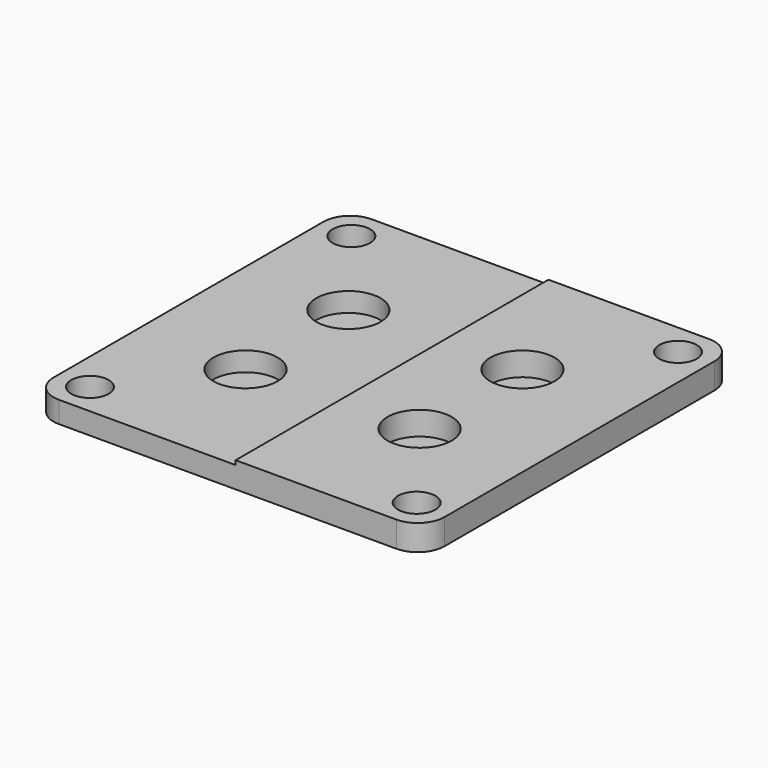
from build123d import *

# Parameters (mm, degrees)
F0_W     = 36.5
F0_H     = 36.5
F0_R     = 1.75
F1_DEPTH = 0.2
F2_W     = 36.5
F2_H     = 36.5
F2_R     = 1.75
F2_R_2   = 3
F3_DEPTH = 1.8
F4_W     = 17.5
F4_H     = 36.5
F4_R     = 1.75
F4_R_2   = 3
F5_DEPTH = 0.4
F6_R     = 2.5


with BuildPart() as f1:
    # F0 (on Top) → F1 (new body)
    with BuildSketch(Plane.XY):
        with Locations((-17.7327652574, -14.8268600106)):
            Rectangle(F0_W, F0_H)
        with Locations((-32.9827652574, -30.0768600106)):
            Circle(F0_R, mode=Mode.SUBTRACT)
        with Locations((-2.4827652574, -30.0768600106)):
            Circle(F0_R, mode=Mode.SUBTRACT)
        with Locations((-32.9827652574, 0.4231399894)):
            Circle(F0_R, mode=Mode.SUBTRACT)
        with Locations((-2.4827652574, 0.4231399894)):
            Circle(F0_R, mode=Mode.SUBTRACT)
    extrude(amount=F1_DEPTH)

    # F2 (on face) → F3 (join)
    with BuildSketch(Plane.XY.offset(0.2)):
        with Locations((-17.7327652574, -14.8268600106)):
            Rectangle(F2_W, F2_H)
        with Locations((-32.9827652574, -30.0768600106)):
            Circle(F2_R, mode=Mode.SUBTRACT)
        with Locations((-25.8577652574, -20.8268600106)):
            Circle(F2_R_2, mode=Mode.SUBTRACT)
        with Locations((-2.4827652574, -30.0768600106)):
            Circle(F2_R, mode=Mode.SUBTRACT)
        with Locations((-9.6077652574, -20.8268600106)):
            Circle(F2_R_2, mode=Mode.SUBTRACT)
        with Locations((-25.8577652574, -8.8268600106)):
            Circle(F2_R_2, mode=Mode.SUBTRACT)
        with Locations((-32.9827652574, 0.4231399894)):
            Circle(F2_R, mode=Mode.SUBTRACT)
        with Locations((-9.6077652574, -8.8268600106)):
            Circle(F2_R_2, mode=Mode.SUBTRACT)
        with Locations((-2.4827652574, 0.4231399894)):
            Circle(F2_R, mode=Mode.SUBTRACT)
    extrude(amount=F3_DEPTH)

    # F4 (on face) → F5 (join)
    with BuildSketch(Plane.XY.offset(2)):
        with Locations((-8.2327652574, -14.8268600106)):
            Rectangle(F4_W, F4_H)
        with Locations((-2.4827652574, -30.0768600106)):
            Circle(F4_R, mode=Mode.SUBTRACT)
        with Locations((-9.6077652574, -20.8268600106)):
            Circle(F4_R_2, mode=Mode.SUBTRACT)
        with Locations((-9.6077652574, -8.8268600106)):
            Circle(F4_R_2, mode=Mode.SUBTRACT)
        with Locations((-2.4827652574, 0.4231399894)):
            Circle(F4_R, mode=Mode.SUBTRACT)
    extrude(amount=F5_DEPTH)

    # F6
    f6_edges = [f1.edges().sort_by_distance(p)[0] for p in [
        (-35.982765, 3.42314, 1),
        (-35.982765, -33.07686, 1),
        (0.517235, -33.07686, 1.2),
        (0.517235, 3.42314, 1.2),
    ]]
    fillet(f6_edges, radius=F6_R)


solid = f1.part
